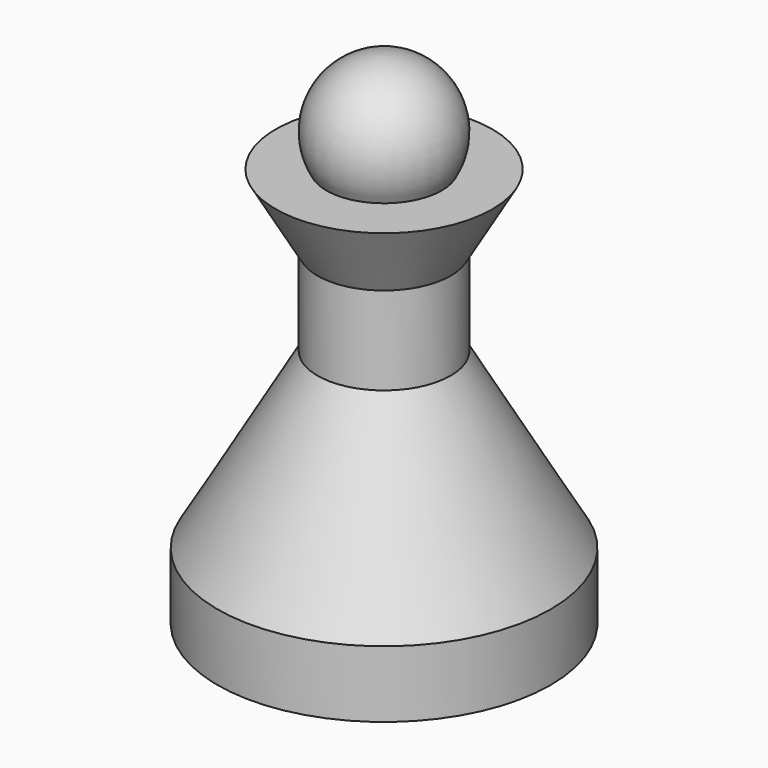
from build123d import *


with BuildPart() as f1:
    # F0 (on Front) → F1 (revolve)
    with BuildSketch(Plane.XZ):
        with BuildLine():
            Line((0, 30), (0, 0))
            Line((0, 0), (10, 0))
            Line((10, 0), (10, 4))
            Line((10, 4), (4, 14.392305))
            Line((4, 14.392305), (4, 19.669873))
            Line((4, 19.669873), (6.5, 24))
            Line((6.5, 24), (3.464102, 24))
            ThreePointArc((3.464102, 24), (3.464102, 28), (0, 30))
        make_face()
    revolve(axis=Axis((0, 0, 9.499111), (0, 0, -1)))


solid = f1.part
